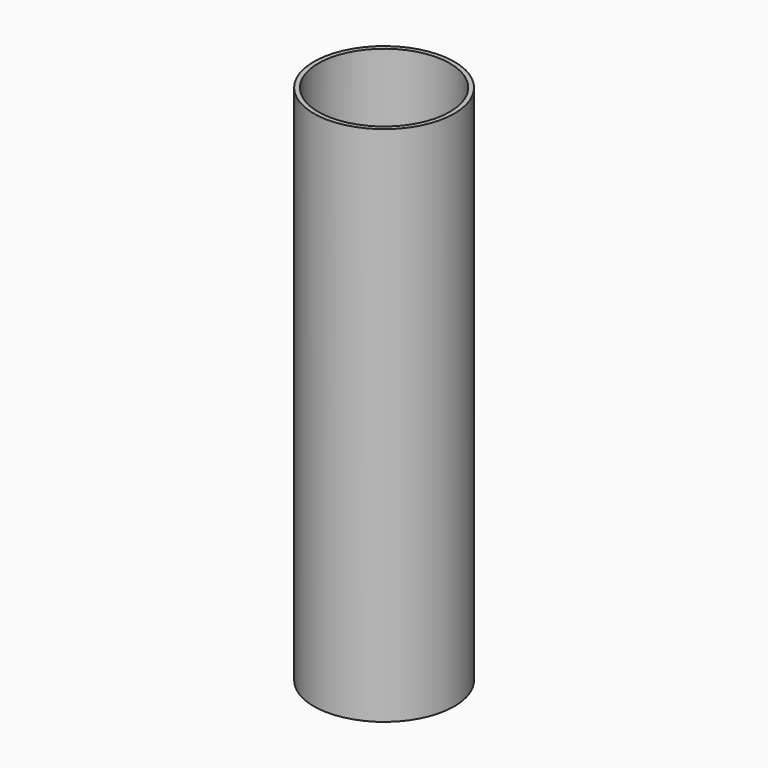
from build123d import *

# Parameters (mm, degrees)
F0_R     = 9.9187
F0_R_2   = 9.2837
F1_DEPTH = 73.66
F3_DEPTH = 2.286


with BuildPart() as f1:
    # F0 (on Top) → F1 (new body)
    with BuildSketch(Plane.XY):
        Circle(F0_R)
        Circle(F0_R_2, mode=Mode.SUBTRACT)
    extrude(amount=F1_DEPTH)


with BuildPart() as f3:
    # F2 (on Top) → F3 (new body)
    with BuildSketch(Plane.XY):
        with BuildLine():
            ThreePointArc((-1.83362, 9.10082), (0, 8.3185), (1.83362, 9.10082))
            ThreePointArc((1.83362, 9.10082), (0, 9.2837), (-1.83362, 9.10082))
        make_face()
    extrude(amount=F3_DEPTH)


solid = Compound([f1.part, f3.part])
